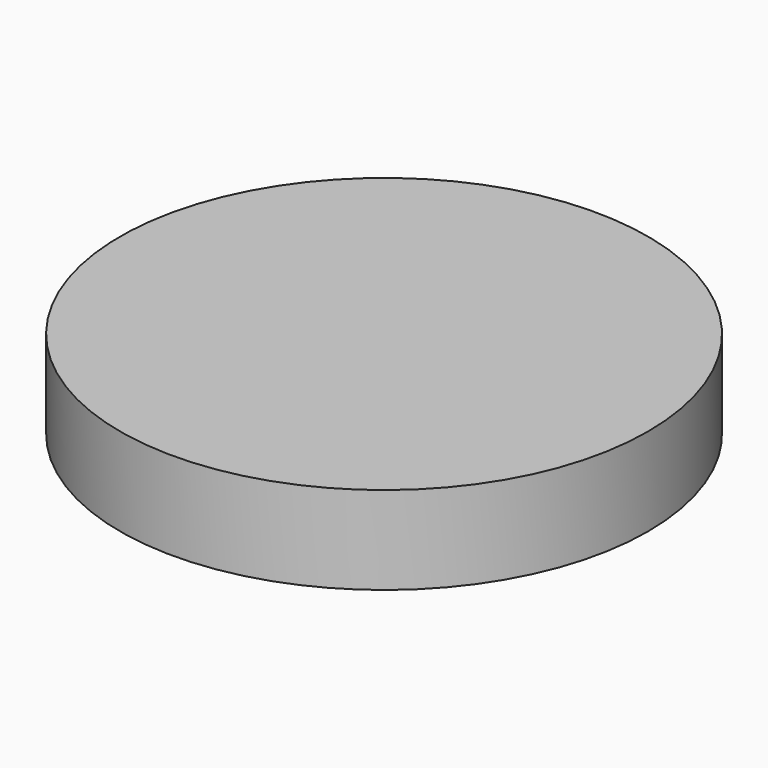
from build123d import *

# Parameters (mm, degrees)
F0_R     = 30
F1_DEPTH = 10
F3_DEPTH = 5


with BuildPart() as f1:
    # F0 (on Top) → F1 (new body)
    with BuildSketch(Plane.XY):
        Circle(F0_R)
    extrude(amount=F1_DEPTH)

    # F2 (on Top) → F3 (cut)
    with BuildSketch(Plane.XY):
        with BuildLine():
            ThreePointArc((25.568315, -4.718186), (15.659486, 8.875838), (9.086398, 24.36057))
            ThreePointArc((9.086398, 24.36057), (0.206615, 25.999179), (-8.698088, 24.501903))
            ThreePointArc((-8.698088, 24.501903), (-15.516444, 9.123593), (-25.640071, -4.311234))
            ThreePointArc((-25.640071, -4.311234), (-22.619257, -12.820656), (-16.870227, -19.783717))
            ThreePointArc((-16.870227, -19.783717), (-0.143041, -17.999432), (16.553674, -20.049336))
            ThreePointArc((16.553674, -20.049336), (22.412642, -13.178523), (25.568315, -4.718186))
        make_face()
    extrude(amount=F3_DEPTH, mode=Mode.SUBTRACT)


solid = f1.part
